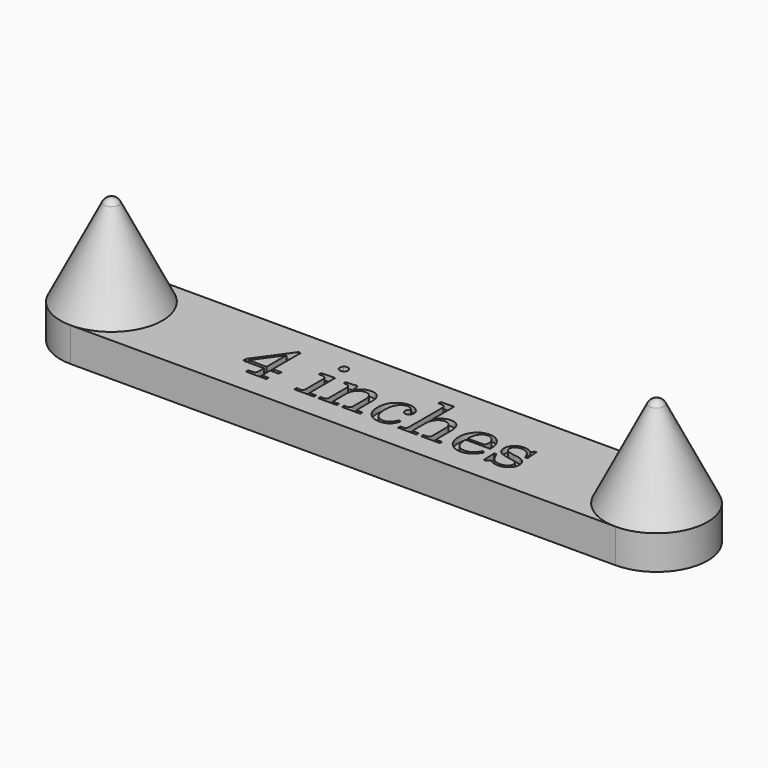
from build123d import *

# Parameters (mm, degrees)
PAD_DEPTH    = 6.35
POCKET_DEPTH = 1


with BuildPart() as part:
    # Sketch (on DatumPlane) → Pad (new body)
    with BuildSketch(Plane.XY):
        with BuildLine():
            Line((-50.8, 9.525), (0, 9.525))
            Line((0, 9.525), (50.8, 9.525))
            ThreePointArc((50.8, -9.525), (60.325, 0), (50.8, 9.525))
            Line((50.8, -9.525), (0, -9.525))
            Line((0, -9.525), (-50.8, -9.525))
            ThreePointArc((-50.8, 9.525), (-60.325, 0), (-50.8, -9.525))
        make_face()
    extrude(amount=PAD_DEPTH)

    # Sketch001 (on DatumPlane) → Revolution (revolve)
    with BuildSketch(Plane(origin=(50.8, 0, 0), x_dir=(1, 0, 0), z_dir=(0, -1, 0))):
        with BuildLine():
            Line((9.525, 6.35), (0, 6.35))
            Line((0, 6.35), (0, 23.495))
            ThreePointArc((1.378471, 22.643058), (0.810245, 23.264826), (0, 23.495))
            Line((1.378471, 22.643058), (9.525, 6.35))
        make_face()
    revolve(axis=Axis((50.8, 0, 0), (0, 0, 1)))

    # Sketch002 (on DatumPlane) → Revolution001 (revolve)
    with BuildSketch(Plane(origin=(-50.8, 0, 0), x_dir=(1, 0, 0), z_dir=(0, -1, 0))):
        with BuildLine():
            Line((9.525, 6.35), (0, 6.35))
            Line((0, 6.35), (0, 23.495))
            ThreePointArc((1.378471, 22.643058), (0.810245, 23.264826), (0, 23.495))
            Line((1.378471, 22.643058), (9.525, 6.35))
        make_face()
    revolve(axis=Axis((-50.8, 0, 0), (0, 0, 1)))

    # Sketch003 (on DatumPlane) → Pocket (cut)
    with BuildSketch(Plane(origin=(-27, 7, 6.35), x_dir=(1, 0, 0), z_dir=(0, 0, 1))):
        with BuildLine():
            add(Edge.make_bspline(
                [(49.997212, -9.527496), (50.424404, -10.719498), (50.975618, -11.18114)],
                knots=[0, 0, 0, 1, 1, 1], degree=2))
            add(Edge.make_bspline(
                [(50.975618, -11.18114), (51.533723, -11.635892), (52.346765, -11.635892)],
                knots=[0, 0, 0, 1, 1, 1], degree=2))
            add(Edge.make_bspline(
                [(52.346765, -11.635892), (53.097796, -11.635892), (53.497426, -11.312054)],
                knots=[0, 0, 0, 1, 1, 1], degree=2))
            add(Edge.make_bspline(
                [(53.497426, -11.312054), (53.903947, -10.981325), (53.903947, -10.478341)],
                knots=[0, 0, 0, 1, 1, 1], degree=2))
            add(Edge.make_bspline(
                [(53.903947, -10.478341), (53.903947, -10.188953), (53.752363, -9.975358)],
                knots=[0, 0, 0, 1, 1, 1], degree=2))
            add(Edge.make_bspline(
                [(53.752363, -9.975358), (53.607669, -9.754872), (53.345842, -9.651519)],
                knots=[0, 0, 0, 1, 1, 1], degree=2))
            add(Edge.make_bspline(
                [(53.345842, -9.651519), (53.084015, -9.541276), (51.988476, -9.33457)],
                knots=[0, 0, 0, 1, 1, 1], degree=2))
            add(Edge.make_bspline(
                [(51.988476, -9.33457), (50.941167, -9.127865), (50.527756, -8.900489)],
                knots=[0, 0, 0, 1, 1, 1], degree=2))
            add(Edge.make_bspline(
                [(50.527756, -8.900489), (50.114345, -8.673113), (49.880079, -8.273482)],
                knots=[0, 0, 0, 1, 1, 1], degree=2))
            add(Edge.make_bspline(
                [(49.880079, -8.273482), (49.652703, -7.873851), (49.652703, -7.405318)],
                knots=[0, 0, 0, 1, 1, 1], degree=2))
            add(Edge.make_bspline(
                [(49.652703, -7.405318), (49.652703, -6.695629), (50.128126, -6.116854)],
                knots=[0, 0, 0, 1, 1, 1], degree=2))
            add(Edge.make_bspline(
                [(50.128126, -6.116854), (50.741352, -5.379604), (51.843782, -5.379604)],
                knots=[0, 0, 0, 1, 1, 1], degree=2))
            add(Edge.make_bspline(
                [(51.843782, -5.379604), (52.684384, -5.379604), (53.400964, -5.910148)],
                knots=[0, 0, 0, 1, 1, 1], degree=2))
            add(Edge.make_bspline(
                [(53.400964, -5.910148), (53.855716, -5.427835)],
                knots=[0, 0, 0.662892, 0.662892], degree=1))
            add(Edge.make_bspline(
                [(53.855716, -5.427835), (54.138214, -5.427835)],
                knots=[0, 0, 0.282498, 0.282498], degree=1))
            add(Edge.make_bspline(
                [(54.138214, -5.427835), (54.317358, -7.729157)],
                knots=[0, 0, 2.308284, 2.308284], degree=1))
            add(Edge.make_bspline(
                [(54.317358, -7.729157), (53.855716, -7.729157)],
                knots=[0, 0, 0.461642, 0.461642], degree=1))
            add(Edge.make_bspline(
                [(53.855716, -7.729157), (53.552548, -6.750751), (53.035784, -6.323559)],
                knots=[0, 0, 0, 1, 1, 1], degree=2))
            add(Edge.make_bspline(
                [(53.035784, -6.323559), (52.51902, -5.889478), (51.7611, -5.889478)],
                knots=[0, 0, 0, 1, 1, 1], degree=2))
            add(Edge.make_bspline(
                [(51.7611, -5.889478), (51.106532, -5.889478), (50.734462, -6.213316)],
                knots=[0, 0, 0, 1, 1, 1], degree=2))
            add(Edge.make_bspline(
                [(50.734462, -6.213316), (50.362392, -6.530265), (50.362392, -6.991907)],
                knots=[0, 0, 0, 1, 1, 1], degree=2))
            add(Edge.make_bspline(
                [(50.362392, -6.991907), (50.362392, -7.398428), (50.706901, -7.667145)],
                knots=[0, 0, 0, 1, 1, 1], degree=2))
            add(Edge.make_bspline(
                [(50.706901, -7.667145), (51.04452, -7.942753), (52.029817, -8.101227)],
                knots=[0, 0, 0, 1, 1, 1], degree=2))
            add(Edge.make_bspline(
                [(52.029817, -8.101227), (53.173588, -8.294152), (53.518097, -8.425066)],
                knots=[0, 0, 0, 1, 1, 1], degree=2))
            add(Edge.make_bspline(
                [(53.518097, -8.425066), (54.083092, -8.631771), (54.39315, -9.065853)],
                knots=[0, 0, 0, 1, 1, 1], degree=2))
            add(Edge.make_bspline(
                [(54.39315, -9.065853), (54.703209, -9.493045), (54.703209, -10.113161)],
                knots=[0, 0, 0, 1, 1, 1], degree=2))
            add(Edge.make_bspline(
                [(54.703209, -10.113161), (54.703209, -10.967544), (54.027971, -11.5601)],
                knots=[0, 0, 0, 1, 1, 1], degree=2))
            add(Edge.make_bspline(
                [(54.027971, -11.5601), (53.359623, -12.152656), (52.326095, -12.152656)],
                knots=[0, 0, 0, 1, 1, 1], degree=2))
            add(Edge.make_bspline(
                [(52.326095, -12.152656), (51.368359, -12.152656), (50.548427, -11.518759)],
                knots=[0, 0, 0, 1, 1, 1], degree=2))
            add(Edge.make_bspline(
                [(50.548427, -11.518759), (50.045443, -12.097535)],
                knots=[0, 0, 0.766795, 0.766795], degree=1))
            add(Edge.make_bspline(
                [(50.045443, -12.097535), (49.680263, -12.097535)],
                knots=[0, 0, 0.36518, 0.36518], degree=1))
            add(Edge.make_bspline(
                [(49.680263, -12.097535), (49.54246, -9.527496)],
                knots=[0, 0, 2.573731, 2.573731], degree=1))
            add(Edge.make_bspline(
                [(49.54246, -9.527496), (49.997212, -9.527496)],
                knots=[0, 0, 0.454752, 0.454752], degree=1))
        make_face()
        with BuildLine():
            add(Edge.make_bspline(
                [(7.367633, -2.403044), (7.815495, -2.403044)],
                knots=[0, 0, 0.447862, 0.447862], degree=1))
            add(Edge.make_bspline(
                [(7.815495, -2.403044), (7.815495, -8.921159)],
                knots=[0, 0, 6.518116, 6.518116], degree=1))
            add(Edge.make_bspline(
                [(7.815495, -8.921159), (9.400238, -8.921159)],
                knots=[0, 0, 1.584743, 1.584743], degree=1))
            add(Edge.make_bspline(
                [(9.400238, -8.921159), (9.400238, -9.506825)],
                knots=[0, 0, 0.585666, 0.585666], degree=1))
            add(Edge.make_bspline(
                [(9.400238, -9.506825), (7.815495, -9.506825)],
                knots=[0, 0, 1.584743, 1.584743], degree=1))
            add(Edge.make_bspline(
                [(7.815495, -9.506825), (7.815495, -10.974435)],
                knots=[0, 0, 1.46761, 1.46761], degree=1))
            add(Edge.make_bspline(
                [(7.815495, -10.974435), (7.815495, -11.16736), (7.967079, -11.284493)],
                knots=[0, 0, 0, 1, 1, 1], degree=2))
            add(Edge.make_bspline(
                [(7.967079, -11.284493), (8.187565, -11.442967), (8.476953, -11.442967)],
                knots=[0, 0, 0, 1, 1, 1], degree=2))
            add(Edge.make_bspline(
                [(8.476953, -11.442967), (9.062619, -11.442967)],
                knots=[0, 0, 0.585666, 0.585666], degree=1))
            add(Edge.make_bspline(
                [(9.062619, -11.442967), (9.062619, -11.959731)],
                knots=[0, 0, 0.516764, 0.516764], degree=1))
            add(Edge.make_bspline(
                [(9.062619, -11.959731), (5.238566, -11.959731)],
                knots=[0, 0, 3.824053, 3.824053], degree=1))
            add(Edge.make_bspline(
                [(5.238566, -11.959731), (5.238566, -11.442967)],
                knots=[0, 0, 0.516764, 0.516764], degree=1))
            add(Edge.make_bspline(
                [(5.238566, -11.442967), (5.948255, -11.442967)],
                knots=[0, 0, 0.709689, 0.709689], degree=1))
            add(Edge.make_bspline(
                [(5.948255, -11.442967), (6.306545, -11.442967), (6.471909, -11.291383)],
                knots=[0, 0, 0, 1, 1, 1], degree=2))
            add(Edge.make_bspline(
                [(6.471909, -11.291383), (6.644164, -11.139799), (6.644164, -10.850411)],
                knots=[0, 0, 0, 1, 1, 1], degree=2))
            add(Edge.make_bspline(
                [(6.644164, -10.850411), (6.644164, -9.506825)],
                knots=[0, 0, 1.343586, 1.343586], degree=1))
            add(Edge.make_bspline(
                [(6.644164, -9.506825), (2.744319, -9.506825)],
                knots=[0, 0, 3.899845, 3.899845], degree=1))
            add(Edge.make_bspline(
                [(2.744319, -9.506825), (2.744319, -8.845367)],
                knots=[0, 0, 0.661458, 0.661458], degree=1))
            add(Edge.make_bspline(
                [(2.744319, -8.845367), (7.367633, -2.403044)],
                knots=[0, 0, 7.929601, 7.929601], degree=1))
        make_face()
        with BuildLine():
            add(Edge.make_bspline(
                [(6.644164, -4.270284), (3.316204, -8.921159)],
                knots=[0, 0, 5.718912, 5.718912], degree=1))
            add(Edge.make_bspline(
                [(3.316204, -8.921159), (6.644164, -8.921159)],
                knots=[0, 0, 3.32796, 3.32796], degree=1))
            add(Edge.make_bspline(
                [(6.644164, -8.921159), (6.644164, -4.270284)],
                knots=[0, 0, 4.650875, 4.650875], degree=1))
        make_face(mode=Mode.SUBTRACT)
        with BuildLine():
            add(Edge.make_bspline(
                [(15.883902, -1.652013), (16.19396, -1.652013), (16.428227, -1.88628)],
                knots=[0, 0, 0, 1, 1, 1], degree=2))
            add(Edge.make_bspline(
                [(16.428227, -1.88628), (16.662493, -2.120546), (16.662493, -2.437495)],
                knots=[0, 0, 0, 1, 1, 1], degree=2))
            add(Edge.make_bspline(
                [(16.662493, -2.437495), (16.662493, -2.747553), (16.435117, -2.974929)],
                knots=[0, 0, 0, 1, 1, 1], degree=2))
            add(Edge.make_bspline(
                [(16.435117, -2.974929), (16.207741, -3.202305), (15.890792, -3.202305)],
                knots=[0, 0, 0, 1, 1, 1], degree=2))
            add(Edge.make_bspline(
                [(15.890792, -3.202305), (15.573844, -3.202305), (15.339577, -2.974929)],
                knots=[0, 0, 0, 1, 1, 1], degree=2))
            add(Edge.make_bspline(
                [(15.339577, -2.974929), (15.112201, -2.740663), (15.112201, -2.430604)],
                knots=[0, 0, 0, 1, 1, 1], degree=2))
            add(Edge.make_bspline(
                [(15.112201, -2.430604), (15.112201, -2.120546), (15.346468, -1.88628)],
                knots=[0, 0, 0, 1, 1, 1], degree=2))
            add(Edge.make_bspline(
                [(15.346468, -1.88628), (15.580734, -1.652013), (15.883902, -1.652013)],
                knots=[0, 0, 0, 1, 1, 1], degree=2))
        make_face()
        with BuildLine():
            add(Edge.make_bspline(
                [(14.099344, -5.503627), (16.662493, -5.427835)],
                knots=[0, 0, 2.564269, 2.564269], degree=1))
            add(Edge.make_bspline(
                [(16.662493, -5.427835), (16.662493, -10.981325)],
                knots=[0, 0, 5.55349, 5.55349], degree=1))
            add(Edge.make_bspline(
                [(16.662493, -10.981325), (16.662493, -11.208701), (16.772736, -11.305163)],
                knots=[0, 0, 0, 1, 1, 1], degree=2))
            add(Edge.make_bspline(
                [(16.772736, -11.305163), (16.93121, -11.442967), (17.172367, -11.442967)],
                knots=[0, 0, 0, 1, 1, 1], degree=2))
            add(Edge.make_bspline(
                [(17.172367, -11.442967), (17.902727, -11.442967)],
                knots=[0, 0, 0.73036, 0.73036], degree=1))
            add(Edge.make_bspline(
                [(17.902727, -11.442967), (17.902727, -11.959731)],
                knots=[0, 0, 0.516764, 0.516764], degree=1))
            add(Edge.make_bspline(
                [(17.902727, -11.959731), (14.237148, -11.959731)],
                knots=[0, 0, 3.665579, 3.665579], degree=1))
            add(Edge.make_bspline(
                [(14.237148, -11.959731), (14.237148, -11.442967)],
                knots=[0, 0, 0.516764, 0.516764], degree=1))
            add(Edge.make_bspline(
                [(14.237148, -11.442967), (14.919276, -11.442967)],
                knots=[0, 0, 0.682128, 0.682128], degree=1))
            add(Edge.make_bspline(
                [(14.919276, -11.442967), (15.222444, -11.442967), (15.360248, -11.298273)],
                knots=[0, 0, 0, 1, 1, 1], degree=2))
            add(Edge.make_bspline(
                [(15.360248, -11.298273), (15.504942, -11.146689), (15.504942, -10.864192)],
                knots=[0, 0, 0, 1, 1, 1], degree=2))
            add(Edge.make_bspline(
                [(15.504942, -10.864192), (15.504942, -6.798982)],
                knots=[0, 0, 4.06521, 4.06521], degree=1))
            add(Edge.make_bspline(
                [(15.504942, -6.798982), (15.504942, -6.413132), (15.284456, -6.220206)],
                knots=[0, 0, 0, 1, 1, 1], degree=2))
            add(Edge.make_bspline(
                [(15.284456, -6.220206), (15.06397, -6.020391), (14.629888, -6.020391)],
                knots=[0, 0, 0, 1, 1, 1], degree=2))
            add(Edge.make_bspline(
                [(14.629888, -6.020391), (14.099344, -6.020391)],
                knots=[0, 0, 0.530544, 0.530544], degree=1))
            add(Edge.make_bspline(
                [(14.099344, -6.020391), (14.099344, -5.503627)],
                knots=[0, 0, 0.516764, 0.516764], degree=1))
        make_face()
        with BuildLine():
            add(Edge.make_bspline(
                [(18.667537, -5.503627), (20.810385, -5.372714)],
                knots=[0, 0, 2.146843, 2.146843], degree=1))
            add(Edge.make_bspline(
                [(20.810385, -5.372714), (20.941299, -5.97905), (21.00331, -6.792092)],
                knots=[0, 0, 0, 1, 1, 1], degree=2))
            add(Edge.make_bspline(
                [(21.00331, -6.792092), (21.437392, -6.089293), (22.023058, -5.737894)],
                knots=[0, 0, 0, 1, 1, 1], degree=2))
            add(Edge.make_bspline(
                [(22.023058, -5.737894), (22.615614, -5.386494), (23.359754, -5.386494)],
                knots=[0, 0, 0, 1, 1, 1], degree=2))
            add(Edge.make_bspline(
                [(23.359754, -5.386494), (24.000541, -5.386494), (24.434623, -5.641431)],
                knots=[0, 0, 0, 1, 1, 1], degree=2))
            add(Edge.make_bspline(
                [(24.434623, -5.641431), (24.868704, -5.889478), (25.130532, -6.433802)],
                knots=[0, 0, 0, 1, 1, 1], degree=2))
            add(Edge.make_bspline(
                [(25.130532, -6.433802), (25.392359, -6.978127), (25.392359, -7.653365)],
                knots=[0, 0, 0, 1, 1, 1], degree=2))
            add(Edge.make_bspline(
                [(25.392359, -7.653365), (25.392359, -10.79529)],
                knots=[0, 0, 3.141925, 3.141925], degree=1))
            add(Edge.make_bspline(
                [(25.392359, -10.79529), (25.392359, -11.146689), (25.550833, -11.298273)],
                knots=[0, 0, 0, 1, 1, 1], degree=2))
            add(Edge.make_bspline(
                [(25.550833, -11.298273), (25.709307, -11.442967), (26.081377, -11.442967)],
                knots=[0, 0, 0, 1, 1, 1], degree=2))
            add(Edge.make_bspline(
                [(26.081377, -11.442967), (26.536129, -11.442967)],
                knots=[0, 0, 0.454752, 0.454752], degree=1))
            add(Edge.make_bspline(
                [(26.536129, -11.442967), (26.536129, -11.959731)],
                knots=[0, 0, 0.516764, 0.516764], degree=1))
            add(Edge.make_bspline(
                [(26.536129, -11.959731), (23.132378, -11.959731)],
                knots=[0, 0, 3.403751, 3.403751], degree=1))
            add(Edge.make_bspline(
                [(23.132378, -11.959731), (23.132378, -11.442967)],
                knots=[0, 0, 0.516764, 0.516764], degree=1))
            add(Edge.make_bspline(
                [(23.132378, -11.442967), (23.456216, -11.442967)],
                knots=[0, 0, 0.323838, 0.323838], degree=1))
            add(Edge.make_bspline(
                [(23.456216, -11.442967), (23.910969, -11.442967), (24.090113, -11.298273)],
                knots=[0, 0, 0, 1, 1, 1], degree=2))
            add(Edge.make_bspline(
                [(24.090113, -11.298273), (24.269258, -11.153579), (24.269258, -10.864192)],
                knots=[0, 0, 0, 1, 1, 1], degree=2))
            add(Edge.make_bspline(
                [(24.269258, -10.864192), (24.269258, -8.101227)],
                knots=[0, 0, 2.762965, 2.762965], degree=1))
            add(Edge.make_bspline(
                [(24.269258, -8.101227), (24.269258, -7.198613), (23.993651, -6.764531)],
                knots=[0, 0, 0, 1, 1, 1], degree=2))
            add(Edge.make_bspline(
                [(23.993651, -6.764531), (23.6078, -6.144414), (22.822319, -6.144414)],
                knots=[0, 0, 0, 1, 1, 1], degree=2))
            add(Edge.make_bspline(
                [(22.822319, -6.144414), (22.043728, -6.144414), (21.520074, -6.771421)],
                knots=[0, 0, 0, 1, 1, 1], degree=2))
            add(Edge.make_bspline(
                [(21.520074, -6.771421), (21.00331, -7.398428), (21.00331, -8.404395)],
                knots=[0, 0, 0, 1, 1, 1], degree=2))
            add(Edge.make_bspline(
                [(21.00331, -8.404395), (21.00331, -10.79529)],
                knots=[0, 0, 2.390895, 2.390895], degree=1))
            add(Edge.make_bspline(
                [(21.00331, -10.79529), (21.00331, -11.146689), (21.161785, -11.298273)],
                knots=[0, 0, 0, 1, 1, 1], degree=2))
            add(Edge.make_bspline(
                [(21.161785, -11.298273), (21.327149, -11.442967), (21.699219, -11.442967)],
                knots=[0, 0, 0, 1, 1, 1], degree=2))
            add(Edge.make_bspline(
                [(21.699219, -11.442967), (22.147081, -11.442967)],
                knots=[0, 0, 0.447862, 0.447862], degree=1))
            add(Edge.make_bspline(
                [(22.147081, -11.442967), (22.147081, -11.959731)],
                knots=[0, 0, 0.516764, 0.516764], degree=1))
            add(Edge.make_bspline(
                [(22.147081, -11.959731), (18.729549, -11.959731)],
                knots=[0, 0, 3.417532, 3.417532], degree=1))
            add(Edge.make_bspline(
                [(18.729549, -11.959731), (18.729549, -11.442967)],
                knots=[0, 0, 0.516764, 0.516764], degree=1))
            add(Edge.make_bspline(
                [(18.729549, -11.442967), (19.177411, -11.442967)],
                knots=[0, 0, 0.447862, 0.447862], degree=1))
            add(Edge.make_bspline(
                [(19.177411, -11.442967), (19.51503, -11.442967), (19.687285, -11.305163)],
                knots=[0, 0, 0, 1, 1, 1], degree=2))
            add(Edge.make_bspline(
                [(19.687285, -11.305163), (19.86643, -11.16736), (19.86643, -10.960654)],
                knots=[0, 0, 0, 1, 1, 1], degree=2))
            add(Edge.make_bspline(
                [(19.86643, -10.960654), (19.86643, -6.792092)],
                knots=[0, 0, 4.168562, 4.168562], degree=1))
            add(Edge.make_bspline(
                [(19.86643, -6.792092), (19.86643, -6.378681), (19.639054, -6.165085)],
                knots=[0, 0, 0, 1, 1, 1], degree=2))
            add(Edge.make_bspline(
                [(19.639054, -6.165085), (19.418568, -5.951489), (18.998266, -5.951489)],
                knots=[0, 0, 0, 1, 1, 1], degree=2))
            add(Edge.make_bspline(
                [(18.998266, -5.951489), (18.667537, -5.951489)],
                knots=[0, 0, 0.330729, 0.330729], degree=1))
            add(Edge.make_bspline(
                [(18.667537, -5.951489), (18.667537, -5.503627)],
                knots=[0, 0, 0.447862, 0.447862], degree=1))
        make_face()
        with BuildLine():
            add(Edge.make_bspline(
                [(32.220533, -10.044259), (32.668396, -10.175173)],
                knots=[0, 0, 0.466604, 0.466604], degree=1))
            add(Edge.make_bspline(
                [(32.668396, -10.175173), (32.130961, -12.152656), (30.298172, -12.152656)],
                knots=[0, 0, 0, 1, 1, 1], degree=2))
            add(Edge.make_bspline(
                [(30.298172, -12.152656), (28.954585, -12.152656), (28.100202, -11.263822)],
                knots=[0, 0, 0, 1, 1, 1], degree=2))
            add(Edge.make_bspline(
                [(28.100202, -11.263822), (27.245819, -10.374988), (27.245819, -8.900489)],
                knots=[0, 0, 0, 1, 1, 1], degree=2))
            add(Edge.make_bspline(
                [(27.245819, -8.900489), (27.245819, -7.191723), (28.182885, -6.254657)],
                knots=[0, 0, 0, 1, 1, 1], degree=2))
            add(Edge.make_bspline(
                [(28.182885, -6.254657), (29.11995, -5.310702), (30.387744, -5.310702)],
                knots=[0, 0, 0, 1, 1, 1], degree=2))
            add(Edge.make_bspline(
                [(30.387744, -5.310702), (31.33859, -5.310702), (31.958706, -5.834356)],
                knots=[0, 0, 0, 1, 1, 1], degree=2))
            add(Edge.make_bspline(
                [(31.958706, -5.834356), (32.578823, -6.35801), (32.578823, -6.998797)],
                knots=[0, 0, 0, 1, 1, 1], degree=2))
            add(Edge.make_bspline(
                [(32.578823, -6.998797), (32.578823, -7.384648), (32.344557, -7.639585)],
                knots=[0, 0, 0, 1, 1, 1], degree=2))
            add(Edge.make_bspline(
                [(32.344557, -7.639585), (32.117181, -7.887631), (31.800232, -7.887631)],
                knots=[0, 0, 0, 1, 1, 1], degree=2))
            add(Edge.make_bspline(
                [(31.800232, -7.887631), (31.490174, -7.887631), (31.276578, -7.674036)],
                knots=[0, 0, 0, 1, 1, 1], degree=2))
            add(Edge.make_bspline(
                [(31.276578, -7.674036), (31.062982, -7.46044), (31.062982, -7.157272)],
                knots=[0, 0, 0, 1, 1, 1], degree=2))
            add(Edge.make_bspline(
                [(31.062982, -7.157272), (31.062982, -6.854103), (31.297249, -6.578496)],
                knots=[0, 0, 0, 1, 1, 1], degree=2))
            add(Edge.make_bspline(
                [(31.297249, -6.578496), (31.407492, -6.447583), (31.407492, -6.37179)],
                knots=[0, 0, 0, 1, 1, 1], degree=2))
            add(Edge.make_bspline(
                [(31.407492, -6.37179), (31.407492, -6.171975), (31.138774, -5.98594)],
                knots=[0, 0, 0, 1, 1, 1], degree=2))
            add(Edge.make_bspline(
                [(31.138774, -5.98594), (30.870057, -5.793015), (30.408415, -5.793015)],
                knots=[0, 0, 0, 1, 1, 1], degree=2))
            add(Edge.make_bspline(
                [(30.408415, -5.793015), (29.567812, -5.793015), (29.13373, -6.406241)],
                knots=[0, 0, 0, 1, 1, 1], degree=2))
            add(Edge.make_bspline(
                [(29.13373, -6.406241), (28.513614, -7.295075), (28.513614, -8.748905)],
                knots=[0, 0, 0, 1, 1, 1], degree=2))
            add(Edge.make_bspline(
                [(28.513614, -8.748905), (28.513614, -10.133832), (29.064828, -10.850411)],
                knots=[0, 0, 0, 1, 1, 1], degree=2))
            add(Edge.make_bspline(
                [(29.064828, -10.850411), (29.616043, -11.5601), (30.470426, -11.5601)],
                knots=[0, 0, 0, 1, 1, 1], degree=2))
            add(Edge.make_bspline(
                [(30.470426, -11.5601), (31.648648, -11.5601), (32.220533, -10.044259)],
                knots=[0, 0, 0, 1, 1, 1], degree=2))
        make_face()
        with BuildLine():
            add(Edge.make_bspline(
                [(33.384974, -1.769146), (35.83099, -1.652013)],
                knots=[0, 0, 2.448819, 2.448819], degree=1))
            add(Edge.make_bspline(
                [(35.83099, -1.652013), (35.83099, -6.626727)],
                knots=[0, 0, 4.974714, 4.974714], degree=1))
            add(Edge.make_bspline(
                [(35.83099, -6.626727), (36.340864, -5.96527), (36.926529, -5.641431)],
                knots=[0, 0, 0, 1, 1, 1], degree=2))
            add(Edge.make_bspline(
                [(36.926529, -5.641431), (37.512195, -5.310702), (38.166763, -5.310702)],
                knots=[0, 0, 0, 1, 1, 1], degree=2))
            add(Edge.make_bspline(
                [(38.166763, -5.310702), (38.78688, -5.310702), (39.282973, -5.60698)],
                knots=[0, 0, 0, 1, 1, 1], degree=2))
            add(Edge.make_bspline(
                [(39.282973, -5.60698), (39.668823, -5.841246), (39.937541, -6.426912)],
                knots=[0, 0, 0, 1, 1, 1], degree=2))
            add(Edge.make_bspline(
                [(39.937541, -6.426912), (40.213148, -7.012578), (40.213148, -7.811839)],
                knots=[0, 0, 0, 1, 1, 1], degree=2))
            add(Edge.make_bspline(
                [(40.213148, -7.811839), (40.213148, -10.877972)],
                knots=[0, 0, 3.066133, 3.066133], degree=1))
            add(Edge.make_bspline(
                [(40.213148, -10.877972), (40.213148, -11.17425), (40.364732, -11.312054)],
                knots=[0, 0, 0, 1, 1, 1], degree=2))
            add(Edge.make_bspline(
                [(40.364732, -11.312054), (40.516316, -11.442967), (40.840155, -11.442967)],
                knots=[0, 0, 0, 1, 1, 1], degree=2))
            add(Edge.make_bspline(
                [(40.840155, -11.442967), (41.39137, -11.442967)],
                knots=[0, 0, 0.551215, 0.551215], degree=1))
            add(Edge.make_bspline(
                [(41.39137, -11.442967), (41.39137, -11.959731)],
                knots=[0, 0, 0.516764, 0.516764], degree=1))
            add(Edge.make_bspline(
                [(41.39137, -11.959731), (37.904936, -11.959731)],
                knots=[0, 0, 3.486434, 3.486434], degree=1))
            add(Edge.make_bspline(
                [(37.904936, -11.959731), (37.904936, -11.442967)],
                knots=[0, 0, 0.516764, 0.516764], degree=1))
            add(Edge.make_bspline(
                [(37.904936, -11.442967), (38.290786, -11.442967)],
                knots=[0, 0, 0.38585, 0.38585], degree=1))
            add(Edge.make_bspline(
                [(38.290786, -11.442967), (38.731758, -11.442967), (38.897122, -11.305163)],
                knots=[0, 0, 0, 1, 1, 1], degree=2))
            add(Edge.make_bspline(
                [(38.897122, -11.305163), (39.069377, -11.16047), (39.069377, -10.877972)],
                knots=[0, 0, 0, 1, 1, 1], degree=2))
            add(Edge.make_bspline(
                [(39.069377, -10.877972), (39.069377, -7.811839)],
                knots=[0, 0, 3.066133, 3.066133], degree=1))
            add(Edge.make_bspline(
                [(39.069377, -7.811839), (39.069377, -7.005688), (38.676637, -6.557826)],
                knots=[0, 0, 0, 1, 1, 1], degree=2))
            add(Edge.make_bspline(
                [(38.676637, -6.557826), (38.290786, -6.103073), (37.68445, -6.103073)],
                knots=[0, 0, 0, 1, 1, 1], degree=2))
            add(Edge.make_bspline(
                [(37.68445, -6.103073), (37.209027, -6.103073), (36.802506, -6.35801)],
                knots=[0, 0, 0, 1, 1, 1], degree=2))
            add(Edge.make_bspline(
                [(36.802506, -6.35801), (36.395985, -6.612947), (36.113488, -7.136601)],
                knots=[0, 0, 0, 1, 1, 1], degree=2))
            add(Edge.make_bspline(
                [(36.113488, -7.136601), (35.83099, -7.653365), (35.83099, -8.232141)],
                knots=[0, 0, 0, 1, 1, 1], degree=2))
            add(Edge.make_bspline(
                [(35.83099, -8.232141), (35.83099, -10.80907)],
                knots=[0, 0, 2.576929, 2.576929], degree=1))
            add(Edge.make_bspline(
                [(35.83099, -10.80907), (35.83099, -11.153579), (35.975684, -11.298273)],
                knots=[0, 0, 0, 1, 1, 1], degree=2))
            add(Edge.make_bspline(
                [(35.975684, -11.298273), (36.120378, -11.442967), (36.451107, -11.442967)],
                knots=[0, 0, 0, 1, 1, 1], degree=2))
            add(Edge.make_bspline(
                [(36.451107, -11.442967), (37.002321, -11.442967)],
                knots=[0, 0, 0.551214, 0.551214], degree=1))
            add(Edge.make_bspline(
                [(37.002321, -11.442967), (37.002321, -11.959731)],
                knots=[0, 0, 0.516764, 0.516764], degree=1))
            add(Edge.make_bspline(
                [(37.002321, -11.959731), (33.59168, -11.959731)],
                knots=[0, 0, 3.410641, 3.410641], degree=1))
            add(Edge.make_bspline(
                [(33.59168, -11.959731), (33.59168, -11.442967)],
                knots=[0, 0, 0.516764, 0.516764], degree=1))
            add(Edge.make_bspline(
                [(33.59168, -11.442967), (33.97753, -11.442967)],
                knots=[0, 0, 0.38585, 0.38585], degree=1))
            add(Edge.make_bspline(
                [(33.97753, -11.442967), (34.370271, -11.442967), (34.535635, -11.291383)],
                knots=[0, 0, 0, 1, 1, 1], degree=2))
            add(Edge.make_bspline(
                [(34.535635, -11.291383), (34.700999, -11.132909), (34.700999, -10.80907)],
                knots=[0, 0, 0, 1, 1, 1], degree=2))
            add(Edge.make_bspline(
                [(34.700999, -10.80907), (34.700999, -3.105843)],
                knots=[0, 0, 7.703227, 7.703227], degree=1))
            add(Edge.make_bspline(
                [(34.700999, -3.105843), (34.700999, -2.692431), (34.480514, -2.492616)],
                knots=[0, 0, 0, 1, 1, 1], degree=2))
            add(Edge.make_bspline(
                [(34.480514, -2.492616), (34.266918, -2.28591), (33.853507, -2.28591)],
                knots=[0, 0, 0, 1, 1, 1], degree=2))
            add(Edge.make_bspline(
                [(33.853507, -2.28591), (33.384974, -2.28591)],
                knots=[0, 0, 0.468533, 0.468533], degree=1))
            add(Edge.make_bspline(
                [(33.384974, -2.28591), (33.384974, -1.769146)],
                knots=[0, 0, 0.516764, 0.516764], degree=1))
        make_face()
        with BuildLine():
            add(Edge.make_bspline(
                [(48.226435, -8.776465), (43.60312, -8.776465)],
                knots=[0, 0, 4.623315, 4.623315], degree=1))
            add(Edge.make_bspline(
                [(43.60312, -8.776465), (43.63757, -10.250965), (44.154335, -10.857301)],
                knots=[0, 0, 0, 1, 1, 1], degree=2))
            add(Edge.make_bspline(
                [(44.154335, -10.857301), (44.746891, -11.53943), (45.663286, -11.53943)],
                knots=[0, 0, 0, 1, 1, 1], degree=2))
            add(Edge.make_bspline(
                [(45.663286, -11.53943), (47.013762, -11.53943), (47.833694, -10.002918)],
                knots=[0, 0, 0, 1, 1, 1], degree=2))
            add(Edge.make_bspline(
                [(47.833694, -10.002918), (48.281556, -10.195844)],
                knots=[0, 0, 0.487648, 0.487648], degree=1))
            add(Edge.make_bspline(
                [(48.281556, -10.195844), (47.275589, -12.152656), (45.373898, -12.152656)],
                knots=[0, 0, 0, 1, 1, 1], degree=2))
            add(Edge.make_bspline(
                [(45.373898, -12.152656), (44.078543, -12.152656), (43.189709, -11.215591)],
                knots=[0, 0, 0, 1, 1, 1], degree=2))
            add(Edge.make_bspline(
                [(43.189709, -11.215591), (42.307765, -10.278526), (42.307765, -8.817806)],
                knots=[0, 0, 0, 1, 1, 1], degree=2))
            add(Edge.make_bspline(
                [(42.307765, -8.817806), (42.307765, -7.246844), (43.175929, -6.282218)],
                knots=[0, 0, 0, 1, 1, 1], degree=2))
            add(Edge.make_bspline(
                [(43.175929, -6.282218), (44.050982, -5.310702), (45.325667, -5.310702)],
                knots=[0, 0, 0, 1, 1, 1], degree=2))
            add(Edge.make_bspline(
                [(45.325667, -5.310702), (46.262732, -5.310702), (46.94486, -5.793015)],
                knots=[0, 0, 0, 1, 1, 1], degree=2))
            add(Edge.make_bspline(
                [(46.94486, -5.793015), (47.626989, -6.275328), (47.971498, -7.177942)],
                knots=[0, 0, 0, 1, 1, 1], degree=2))
            add(Edge.make_bspline(
                [(47.971498, -7.177942), (48.212654, -7.811839), (48.226435, -8.776465)],
                knots=[0, 0, 0, 1, 1, 1], degree=2))
        make_face()
        with BuildLine():
            add(Edge.make_bspline(
                [(43.60312, -8.287262), (46.400536, -8.287262)],
                knots=[0, 0, 2.797416, 2.797416], degree=1))
            add(Edge.make_bspline(
                [(46.400536, -8.287262), (46.648582, -8.287262), (46.786386, -8.121898)],
                knots=[0, 0, 0, 1, 1, 1], degree=2))
            add(Edge.make_bspline(
                [(46.786386, -8.121898), (46.92419, -7.949643), (46.92419, -7.543122)],
                knots=[0, 0, 0, 1, 1, 1], degree=2))
            add(Edge.make_bspline(
                [(46.92419, -7.543122), (46.92419, -6.785202), (46.448767, -6.254657)],
                knots=[0, 0, 0, 1, 1, 1], degree=2))
            add(Edge.make_bspline(
                [(46.448767, -6.254657), (45.980234, -5.724113), (45.339447, -5.724113)],
                knots=[0, 0, 0, 1, 1, 1], degree=2))
            add(Edge.make_bspline(
                [(45.339447, -5.724113), (44.622868, -5.724113), (44.119884, -6.3649)],
                knots=[0, 0, 0, 1, 1, 1], degree=2))
            add(Edge.make_bspline(
                [(44.119884, -6.3649), (43.623791, -7.005688), (43.60312, -8.287262)],
                knots=[0, 0, 0, 1, 1, 1], degree=2))
        make_face(mode=Mode.SUBTRACT)
    extrude(amount=-POCKET_DEPTH, mode=Mode.SUBTRACT)


solid = part.part
